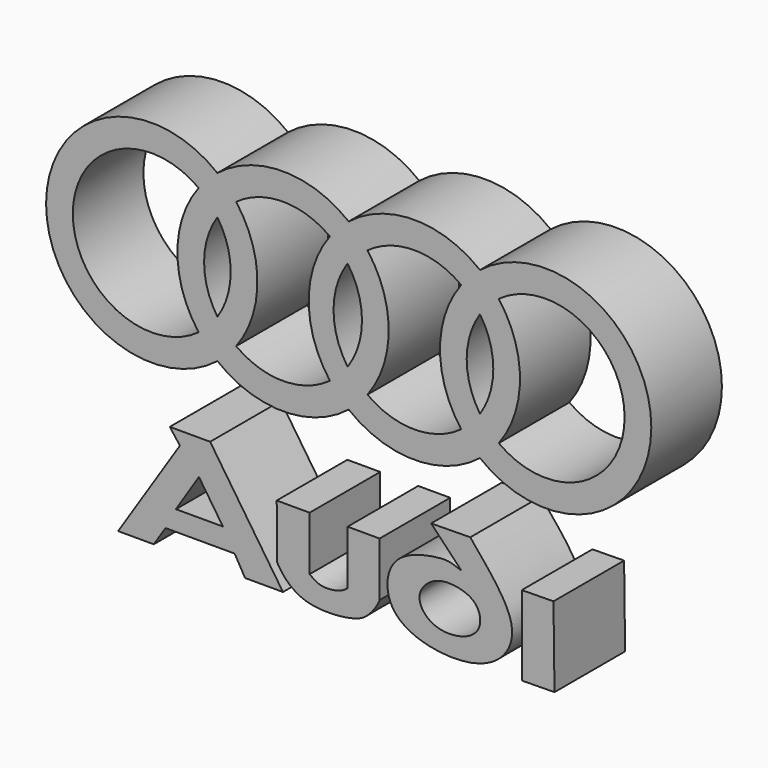
from build123d import *

# Parameters (mm, degrees)
F1_DEPTH = 25.4


with BuildPart() as f1:
    # F0 (on Front) → F1 (new body)
    with BuildSketch(Plane.XZ):
        with BuildLine():
            ThreePointArc((0.3257377115, 46.9804664932), (-18.5660072885, 53.5621488049), (-37.4577522885, 46.9804664932))
            ThreePointArc((-37.4577522885, 46.9804664932), (-86.7533174857, 23.1583286077), (-37.4577522885, -0.6638092779))
            ThreePointArc((-37.4577522885, -0.6638092779), (-18.5660072885, -7.2454915895), (0.3257377115, -0.6638092779))
            ThreePointArc((0.3257377115, -0.6638092779), (19.2174827115, -7.2454915895), (38.1092277115, -0.6638092779))
            ThreePointArc((38.1092277115, -0.6638092779), (87.4047929087, 23.1583286077), (38.1092277115, 46.9804664932))
            ThreePointArc((38.1092277115, 46.9804664932), (19.2174827115, 53.5621488049), (0.3257377115, 46.9804664932))
        make_face()
        with BuildLine():
            ThreePointArc((-42.8612110868, 4.8789589528), (-79.0666542328, 23.1583286077), (-42.8612110868, 41.4376982625))
            ThreePointArc((-42.8612110868, 41.4376982625), (-48.9698274857, 23.1583286077), (-42.8612110868, 4.8789589528))
        make_face(mode=Mode.SUBTRACT)
        with BuildLine():
            ThreePointArc((-37.4577522885, 10.5420220764), (-41.2831642328, 23.1583286077), (-37.4577522885, 35.7746351389))
            ThreePointArc((-37.4577522885, 35.7746351389), (-33.6323403441, 23.1583286077), (-37.4577522885, 10.5420220764))
        make_face(mode=Mode.SUBTRACT)
        with BuildLine():
            ThreePointArc((-32.0542934901, 41.4376982625), (-18.5660072885, 45.875485552), (-5.0777210868, 41.4376982625))
            ThreePointArc((-5.0777210868, 41.4376982625), (-11.1863374857, 23.1583286077), (-5.0777210868, 4.8789589528))
            ThreePointArc((-5.0777210868, 4.8789589528), (-18.5660072885, 0.4411716633), (-32.0542934901, 4.8789589528))
            ThreePointArc((-32.0542934901, 4.8789589528), (-25.9456770913, 23.1583286077), (-32.0542934901, 41.4376982625))
        make_face(mode=Mode.SUBTRACT)
        with BuildLine():
            ThreePointArc((0, 36.2492641357), (4.1511496559, 23.1583286077), (0, 10.0673930796))
            ThreePointArc((0, 10.0673930796), (-4.0351350931, 23.1583286077), (0, 36.2492641357))
        make_face(mode=Mode.SUBTRACT)
        with BuildLine():
            ThreePointArc((5.7291965099, 41.4376982625), (19.2174827115, 45.875485552), (32.7057689132, 41.4376982625))
            ThreePointArc((32.7057689132, 41.4376982625), (26.5971525143, 23.1583286077), (32.7057689132, 4.8789589528))
            ThreePointArc((32.7057689132, 4.8789589528), (19.2174827115, 0.4411716633), (5.7291965099, 4.8789589528))
            ThreePointArc((5.7291965099, 4.8789589528), (11.8378129087, 23.1583286077), (5.7291965099, 41.4376982625))
        make_face(mode=Mode.SUBTRACT)
        with BuildLine():
            ThreePointArc((38.1092277115, 10.5420220764), (34.2838157672, 23.1583286077), (38.1092277115, 35.7746351389))
            ThreePointArc((38.1092277115, 35.7746351389), (41.9346396559, 23.1583286077), (38.1092277115, 10.5420220764))
        make_face(mode=Mode.SUBTRACT)
        with BuildLine():
            ThreePointArc((43.5126865099, 41.4376982625), (79.7181296559, 23.1583286077), (43.5126865099, 4.8789589528))
            ThreePointArc((43.5126865099, 4.8789589528), (49.6213029087, 23.1583286077), (43.5126865099, 41.4376982625))
        make_face(mode=Mode.SUBTRACT)
    extrude(amount=F1_DEPTH)


with BuildPart() as f1b:
    # F0 (on Front) → F1, piece 2 (new body)
    with BuildSketch(Plane.XZ):
        Polygon((-48.2449345291, -25.6000366062), (-66.0236254334, -53.0300103128), (-55.7671576112, -53.0300103128), (-52.3873344064, -47.8154271841), (-32.4900448322, -47.8154271841), (-29.4934660196, -53.0300103128), (-18.5859147459, -53.0300103128), (-39.5482927561, -21.7774584889), (-51.1598773301, -21.7774584889), align=None)
        Polygon((-35.8462147415, -42.0619919896), (-49.3907555938, -42.0619919896), (-42.7714564835, -31.7372341625), align=None, mode=Mode.SUBTRACT)
    extrude(amount=F1_DEPTH)


with BuildPart() as f1c:
    # F0 (on Front) → F1, piece 3 (new body)
    with BuildSketch(Plane.XZ):
        with BuildLine():
            Line((-10.9146703035, -30.4352641106), (-20.3838627785, -30.4352641106))
            Line((-20.3838627785, -30.4352641106), (-20.2639997005, -46.0174791515))
            add(Edge.make_bspline(
                [(-20.2639997005, -46.0174791515), (-19.078476388, -48.3510011859), (-15.2422867149, -52.4994844607), (-7.6505096386, -54.4486724465), (2.4232218284, -53.5168061714), (6.4286154935, -50.8196755354), (8.6860112316, -47.5204543574), (9.222346358, -46.0174791515)],
                knots=[0, 0, 0, 0, 0.2115271615, 0.4237122791, 0.6602068488, 0.825917741, 1, 1, 1, 1], degree=3))
            Line((9.222346358, -46.0174791515), (9.222346358, -30.4352641106))
            Line((9.222346358, -30.4352641106), (0, -30.4352641106))
            Line((0, -30.4352641106), (0, -46.0174791515))
            add(Edge.make_bspline(
                [(-10.9146703035, -46.0174791515), (-9.9383207167, -46.7689096849), (-7.7975948287, -48.4164822528), (-2.0428292679, -47.6669488752), (-0.5901281845, -46.4939744655), (0, -46.0174791515)],
                knots=[0, 0, 0, 0, 0.3323932812, 0.7287993067, 1, 1, 1, 1], degree=3))
            Line((-10.9146703035, -46.0174791515), (-10.9146703035, -30.4352641106))
        make_face()
    extrude(amount=F1_DEPTH)


with BuildPart() as f1d:
    # F0 (on Front) → F1, piece 4 (new body)
    with BuildSketch(Plane.XZ):
        with BuildLine():
            Line((24.052741006, -21.7774640769), (32.7478125691, -30.900163576))
            add(Edge.make_bspline(
                [(32.7478125691, -30.900163576), (29.7426497286, -29.7553391025), (27.5330072276, -29.3114611204), (11.0097216276, -32.1368400019), (10.3567760076, -51.0689860547), (33.0869741502, -55.5707344255), (45.4438933537, -49.9808832635), (49.5245949416, -38.4775955078), (40.8401708539, -28.3088108065), (35.3135690093, -21.6349232942)],
                knots=[0, 0, 0, 0, 0.0976588054, 0.2417933981, 0.3834470786, 0.5584355319, 0.6985849896, 0.8181138879, 1, 1, 1, 1], degree=3))
            Line((35.3135690093, -21.6349232942), (24.052741006, -21.7774640769))
        make_face()
        with BuildLine():
            add(Edge.make_bspline(
                [(30.4536372423, -35.3195555508), (28.1638773212, -35.0780844827), (24.0002699023, -35.6530041008), (19.1534906663, -41.3936427557), (23.8659539627, -48.2586824853), (33.3069252679, -48.3362956842), (38.8479249763, -44.2326893943), (37.7957037247, -37.1666525845), (32.8597627783, -35.5732981803), (30.4536372423, -35.3195555508)],
                knots=[0, 0, 0, 0, 0.1401966738, 0.2769844468, 0.419206197, 0.5844560915, 0.7211198069, 0.8526785303, 1, 1, 1, 1], degree=3))
        make_face(mode=Mode.SUBTRACT)
    extrude(amount=F1_DEPTH)


with BuildPart() as f1e:
    # F0 (on Front) → F1, piece 5 (new body)
    with BuildSketch(Plane.XZ):
        Polygon((59.2573859635, -30.0720174742), (50.1379556954, -30.187452212), (50.1358319434, -53.1115063966), (59.5475143018, -52.9923723001), align=None)
    extrude(amount=F1_DEPTH)


solid = Compound([f1.part, f1b.part, f1c.part, f1d.part, f1e.part])
